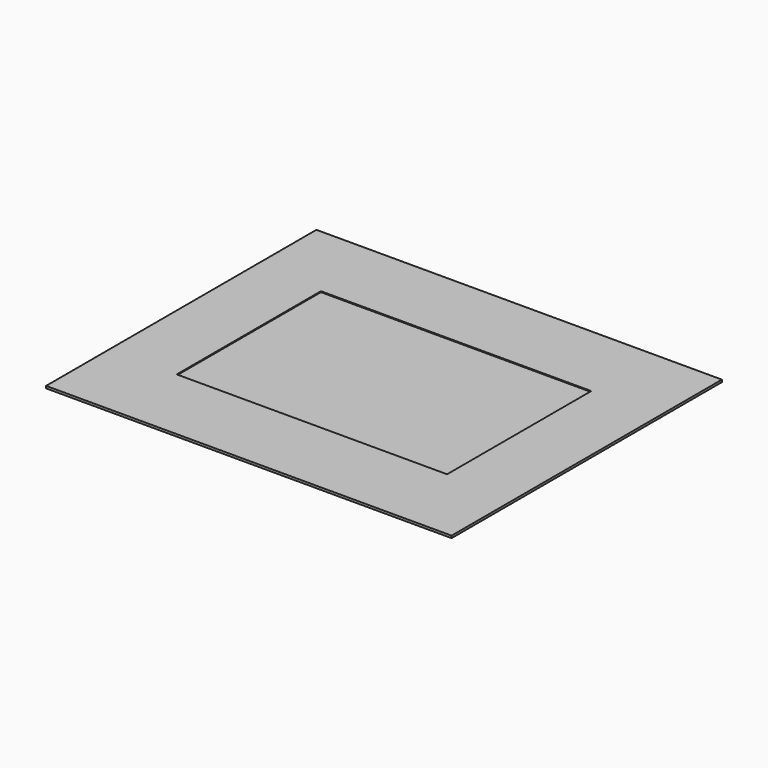
from build123d import *

# Parameters (mm, degrees)
F0_W     = 114.3
F0_H     = 95.25
F1_DEPTH = 0.635
F2_W     = 76.2
F2_H     = 50.8
F3_DEPTH = 0.254


with BuildPart() as f1:
    # F0 (on Top) → F1 (new body)
    with BuildSketch(Plane.XY):
        Rectangle(F0_W, F0_H)
    extrude(amount=F1_DEPTH)

    # F2 (on face) + F0 (on Top) → F3 (cut)
    with BuildSketch(Plane.XY.offset(0.635)):
        Rectangle(F2_W, F2_H)
    with BuildSketch(Plane.XY):
        Rectangle(F0_W, F0_H)
    extrude(amount=-F3_DEPTH, mode=Mode.SUBTRACT)


solid = f1.part
